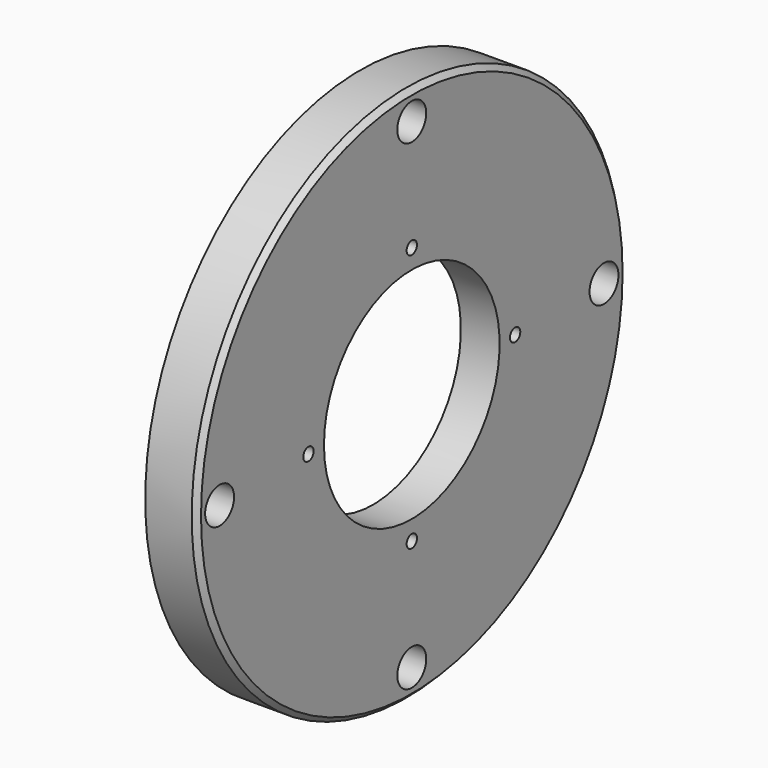
from build123d import *

# Parameters (mm, degrees)
F0_R     = 104
F1_DEPTH = 20
F2_R     = 80
F3_DEPTH = 16
F4_SIZE  = 2
F5_R     = 74.5
F6_DEPTH = 21
F7_R     = 3
F9_D     = 85
F11_D    = 5
F13_D    = 14


with BuildPart() as f1:
    # F0 (on Right) → F1 (new body)
    with BuildSketch(Plane.YZ):
        Circle(F0_R)
    extrude(amount=F1_DEPTH)

    # F2 (on face) → F3 (join)
    with BuildSketch(Plane(origin=(0, 0, 0), x_dir=(0, -1, 0), z_dir=(-1, 0, 0))):
        Circle(F2_R)
    extrude(amount=F3_DEPTH)

    # F4
    f4_edges = [f1.edges().sort_by_distance(p)[0] for p in [
        (-16, 80, 0),
        (20, -104, 0),
    ]]
    chamfer(f4_edges, length=F4_SIZE)

    # F5 (on face) → F6 (cut)
    with BuildSketch(Plane(origin=(-16, 0, 0), x_dir=(0, -1, 0), z_dir=(-1, 0, 0))):
        Circle(F5_R)
    extrude(amount=-F6_DEPTH, mode=Mode.SUBTRACT)

    # F7
    f7_edges = [f1.edges().sort_by_distance(p)[0] for p in [
        (5, 74.5, 0),
    ]]
    fillet(f7_edges, radius=F7_R)

    # F9 (through all)
    with Locations(Plane.YZ.offset(20)):
        with Locations((0, 0)):
            Hole(F9_D / 2)

    # F11 (through all)
    with Locations(Plane.YZ.offset(20)):
        with Locations((0, 50), (50, 0), (0, -50), (-50, 0)):
            Hole(F11_D / 2)

    # F13 (through all)
    with Locations(Plane.YZ.offset(20)):
        with Locations((0, 93), (93, 0), (0, -93), (-93, 0)):
            Hole(F13_D / 2)


solid = f1.part
